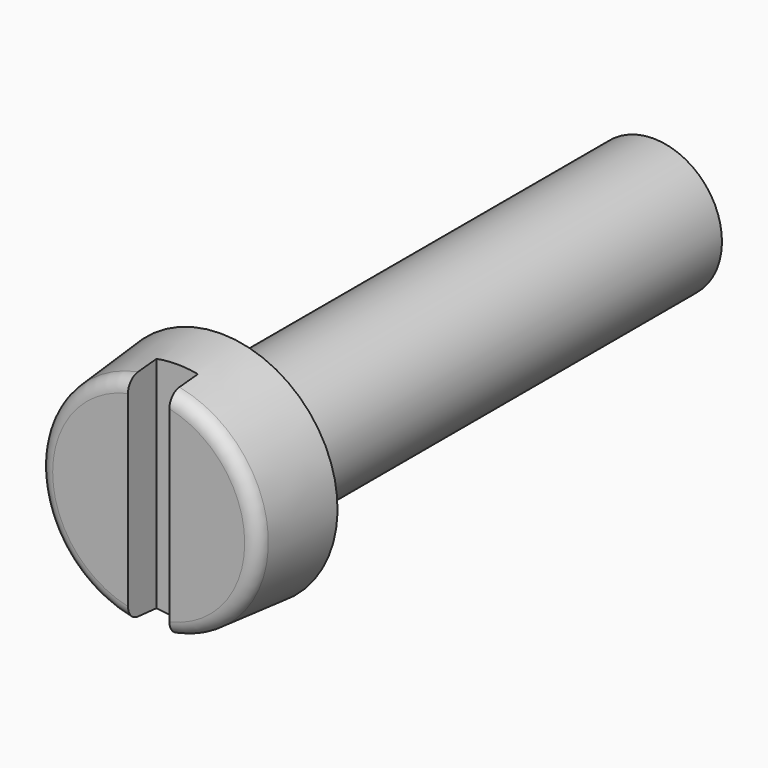
from build123d import *

# Parameters (mm, degrees)
SKETCH001_W  = 8.5
SKETCH001_H  = 1.51
POCKET_DEPTH = 1.3


with BuildPart() as part:
    # Sketch → Revolution (revolve)
    with BuildSketch(Plane.YZ):
        with BuildLine():
            Line((0, 3.503122), (0, 0))
            Line((0, 0), (23.3, 0))
            Line((23.3, 0), (23.3, 2.01))
            Line((23.3, 2.01), (23.017098, 2.5))
            Line((23.017098, 2.5), (3.3, 2.5))
            Line((3.3, 2.5), (3.3, 4.25))
            Line((3.3, 4.25), (0.456422, 4.001219))
            ThreePointArc((0.456422, 4.001219), (0.131361, 3.840917), (0, 3.503122))
        make_face()
    revolve(axis=Axis((0, 0, 0), (0, 1, 0)))

    # Sketch001 → Pocket (cut)
    with BuildSketch(Plane(origin=(0, 0, 0), x_dir=(0, 0, -1), z_dir=(0, -1, 0))):
        Rectangle(SKETCH001_W, SKETCH001_H)
    extrude(amount=-POCKET_DEPTH, mode=Mode.SUBTRACT)


solid = part.part
